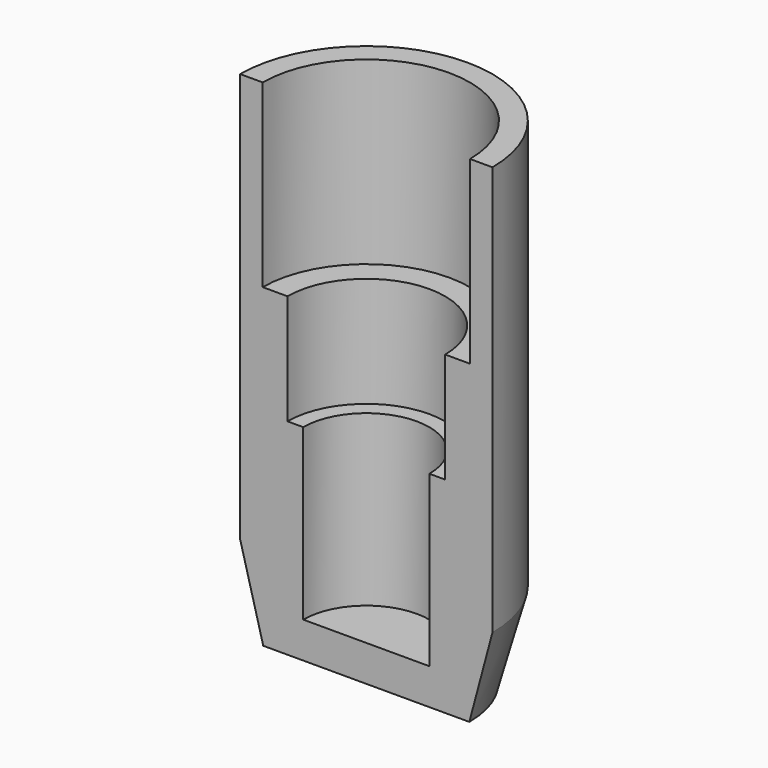
from build123d import *

# Parameters (mm, degrees)
F1_ANGLE = 180


with BuildPart() as f1:
    # F0 (on Front) → F1 (revolve)
    with BuildSketch(Plane.XZ):
        Polygon((2.904469, 0), (3.556, 2.431545), (3.556, 13.974021), (2.921, 13.974021), (2.921, 8.894021), (2.2225, 8.894021), (2.2225, 5.7912), (1.778, 5.7912), (1.778, 1.016), (0, 1.016), (0, 0), align=None)
    revolve(axis=Axis((0, 0, 0.508), (0, 0, 1)), revolution_arc=F1_ANGLE)


solid = f1.part
